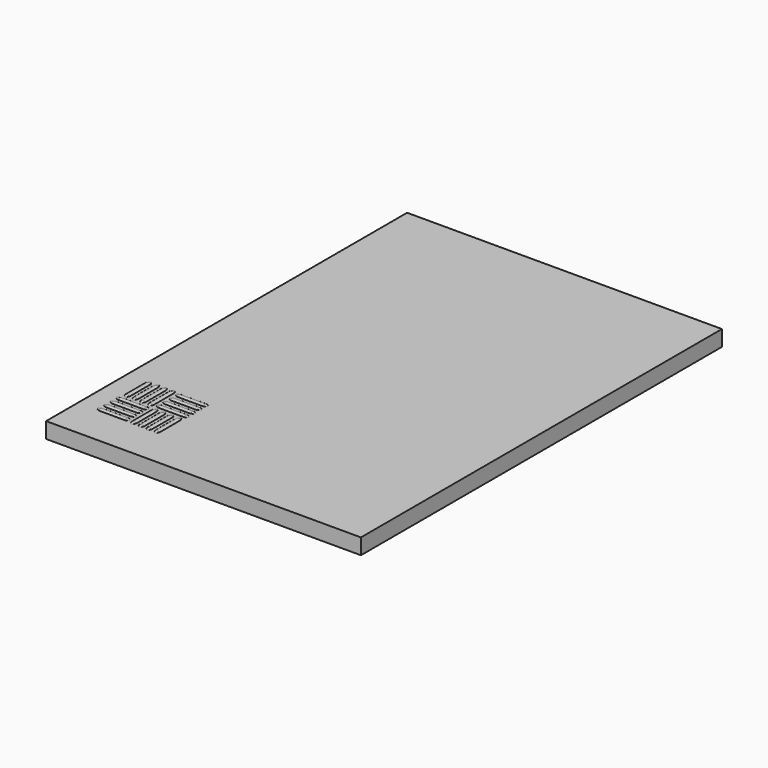
from build123d import *

# Parameters (mm, degrees)
BOX_W                     = 60
BOX_H                     = 86
BOX_DEPTH                 = 3
CYLINDER001_R             = 0.75
CYLINDER001_DEPTH         = 5
FUSION001_ROLL_ANGLE      = 90
CYLINDER002_R             = 0.75
CYLINDER002_DEPTH         = 5
FUSION002_ROLL_ANGLE      = 90
CYLINDER003_R             = 0.75
CYLINDER003_DEPTH         = 5
FUSION003_ROLL_ANGLE      = 90
CYLINDER_R                = 0.75
CYLINDER_DEPTH            = 5
FUSION_ROLL_ANGLE         = 90
FUSION007_ROLL_ANGLE      = 90
FUSION008_ROLL_ANGLE      = 90
FUSION006_ROLL_ANGLE      = 90
FUSION009_ROLL_ANGLE      = 90
FUSION012_ROLL_ANGLE      = 90
FUSION013_ROLL_ANGLE      = 90
FUSION011_ROLL_ANGLE      = 90
FUSION014_ROLL_ANGLE      = 90
FUSION010_PLACEMENT_ANGLE = 90
FUSION018_ROLL_ANGLE      = 90
FUSION017_ROLL_ANGLE      = 90
FUSION016_ROLL_ANGLE      = 90
FUSION019_ROLL_ANGLE      = 90
FUSION015_PLACEMENT_ANGLE = 90


with BuildPart() as box:
    # Box → Box (new body)
    with BuildSketch(Plane.XY):
        with Locations((30, 43)):
            Rectangle(BOX_W, BOX_H)
    extrude(amount=BOX_DEPTH)


with BuildPart() as cone:
    # Cone → Cone (revolve)
    with BuildSketch(Plane(origin=(0, 0, 4), x_dir=(1, 0, 0), z_dir=(0, -1, 0))):
        Polygon((0, 0), (0.75, 0), (0, 3), align=None)
    revolve(axis=Axis((0, 0, 4), (0, 0, 1)))


with BuildPart() as part_mirroring001:
    # Part__Mirroring001: instance of Cone
    add(cone.part.mirror(Plane(origin=(0, 0, 0), x_dir=(0, 1, 0), z_dir=(0, 0, 1))))


with BuildPart() as part_mirroring001_1:
    # Part__Mirroring001 placement: moved
    add(part_mirroring001.part.moved(Location((0, 0, 4))))


with BuildPart() as cone002:
    # Cone002 → Cone002 (revolve)
    with BuildSketch(Plane(origin=(0, 0, 5), x_dir=(1, 0, 0), z_dir=(0, -1, 0))):
        Polygon((0, 0), (0.75, 0), (0, 3), align=None)
    revolve(axis=Axis((0, 0, 5), (0, 0, 1)))


with BuildPart() as cylinder001:
    # Cylinder001 → Cylinder001 (new body)
    with BuildSketch(Plane.XY):
        Circle(CYLINDER001_R)
    extrude(amount=CYLINDER001_DEPTH)


with BuildPart() as fusion001:
    # Fusion001 base: copy of Cylinder001
    add(cylinder001.part)

    # Fusion001: union Part__Mirroring001, Cone002
    add(part_mirroring001_1.part)
    add(cone002.part)


with BuildPart() as fusion001_1:
    # Fusion001 roll: moved
    add(fusion001.part.rotate(Axis((0, 0, 0), (1, 0, 0)), FUSION001_ROLL_ANGLE))


with BuildPart() as fusion001_2:
    # Fusion001 placement: moved
    add(fusion001_1.part.moved(Location((10.5, 16, 2.4))))


with BuildPart() as part_mirroring002:
    # Part__Mirroring002: instance of Cone
    add(cone.part.mirror(Plane(origin=(0, 0, 0), x_dir=(0, 1, 0), z_dir=(0, 0, 1))))


with BuildPart() as part_mirroring002_1:
    # Part__Mirroring002 placement: moved
    add(part_mirroring002.part.moved(Location((0, 0, 4))))


with BuildPart() as cone003:
    # Cone003 → Cone003 (revolve)
    with BuildSketch(Plane(origin=(0, 0, 5), x_dir=(1, 0, 0), z_dir=(0, -1, 0))):
        Polygon((0, 0), (0.75, 0), (0, 3), align=None)
    revolve(axis=Axis((0, 0, 5), (0, 0, 1)))


with BuildPart() as cylinder002:
    # Cylinder002 → Cylinder002 (new body)
    with BuildSketch(Plane.XY):
        Circle(CYLINDER002_R)
    extrude(amount=CYLINDER002_DEPTH)


with BuildPart() as fusion002:
    # Fusion002 base: copy of Cylinder002
    add(cylinder002.part)

    # Fusion002: union Part__Mirroring002, Cone003
    add(part_mirroring002_1.part)
    add(cone003.part)


with BuildPart() as fusion002_1:
    # Fusion002 roll: moved
    add(fusion002.part.rotate(Axis((0, 0, 0), (1, 0, 0)), FUSION002_ROLL_ANGLE))


with BuildPart() as fusion002_2:
    # Fusion002 placement: moved
    add(fusion002_1.part.moved(Location((12, 16, 2.4))))


with BuildPart() as part_mirroring003:
    # Part__Mirroring003: instance of Cone
    add(cone.part.mirror(Plane(origin=(0, 0, 0), x_dir=(0, 1, 0), z_dir=(0, 0, 1))))


with BuildPart() as part_mirroring003_1:
    # Part__Mirroring003 placement: moved
    add(part_mirroring003.part.moved(Location((0, 0, 4))))


with BuildPart() as cone004:
    # Cone004 → Cone004 (revolve)
    with BuildSketch(Plane(origin=(0, 0, 5), x_dir=(1, 0, 0), z_dir=(0, -1, 0))):
        Polygon((0, 0), (0.75, 0), (0, 3), align=None)
    revolve(axis=Axis((0, 0, 5), (0, 0, 1)))


with BuildPart() as cylinder003:
    # Cylinder003 → Cylinder003 (new body)
    with BuildSketch(Plane.XY):
        Circle(CYLINDER003_R)
    extrude(amount=CYLINDER003_DEPTH)


with BuildPart() as fusion003:
    # Fusion003 base: copy of Cylinder003
    add(cylinder003.part)

    # Fusion003: union Part__Mirroring003, Cone004
    add(part_mirroring003_1.part)
    add(cone004.part)


with BuildPart() as fusion003_1:
    # Fusion003 roll: moved
    add(fusion003.part.rotate(Axis((0, 0, 0), (1, 0, 0)), FUSION003_ROLL_ANGLE))


with BuildPart() as fusion003_2:
    # Fusion003 placement: moved
    add(fusion003_1.part.moved(Location((13.5, 16, 2.4))))


with BuildPart() as part_mirroring:
    # Part__Mirroring: instance of Cone
    add(cone.part.mirror(Plane(origin=(0, 0, 0), x_dir=(0, 1, 0), z_dir=(0, 0, 1))))


with BuildPart() as part_mirroring_1:
    # Part__Mirroring placement: moved
    add(part_mirroring.part.moved(Location((0, 0, 4))))


with BuildPart() as cone001:
    # Cone001 → Cone001 (revolve)
    with BuildSketch(Plane(origin=(0, 0, 5), x_dir=(1, 0, 0), z_dir=(0, -1, 0))):
        Polygon((0, 0), (0.75, 0), (0, 3), align=None)
    revolve(axis=Axis((0, 0, 5), (0, 0, 1)))


with BuildPart() as cylinder:
    # Cylinder → Cylinder (new body)
    with BuildSketch(Plane.XY):
        Circle(CYLINDER_R)
    extrude(amount=CYLINDER_DEPTH)


with BuildPart() as fusion004:
    # Fusion base: copy of Cylinder
    add(cylinder.part)

    # Fusion: union Part__Mirroring, Cone001
    add(part_mirroring_1.part)
    add(cone001.part)


with BuildPart() as fusion004_1:
    # Fusion roll: moved
    add(fusion004.part.rotate(Axis((0, 0, 0), (1, 0, 0)), FUSION_ROLL_ANGLE))


with BuildPart() as fusion004_2:
    # Fusion placement: moved
    add(fusion004_1.part.moved(Location((9, 16, 2.4))))

    # Fusion004: union Fusion001, Fusion002, Fusion003
    add(fusion001_2.part)
    add(fusion002_2.part)
    add(fusion003_2.part)


with BuildPart() as fusion004_3:
    # Fusion004 placement: moved
    add(fusion004_2.part.moved(Location((1.5, -3.25, 0))))


with BuildPart() as fusion007:
    # Fusion007 base: copy of Cylinder001
    add(cylinder001.part)

    # Fusion007: union Part__Mirroring001, Cone002
    add(part_mirroring001_1.part)
    add(cone002.part)


with BuildPart() as fusion007_1:
    # Fusion007 roll: moved
    add(fusion007.part.rotate(Axis((0, 0, 0), (1, 0, 0)), FUSION007_ROLL_ANGLE))


with BuildPart() as fusion007_2:
    # Fusion007 placement: moved
    add(fusion007_1.part.moved(Location((10.5, 16, 2.4))))


with BuildPart() as fusion008:
    # Fusion008 base: copy of Cylinder002
    add(cylinder002.part)

    # Fusion008: union Part__Mirroring002, Cone003
    add(part_mirroring002_1.part)
    add(cone003.part)


with BuildPart() as fusion008_1:
    # Fusion008 roll: moved
    add(fusion008.part.rotate(Axis((0, 0, 0), (1, 0, 0)), FUSION008_ROLL_ANGLE))


with BuildPart() as fusion008_2:
    # Fusion008 placement: moved
    add(fusion008_1.part.moved(Location((12, 16, 2.4))))


with BuildPart() as fusion006:
    # Fusion006 base: copy of Cylinder003
    add(cylinder003.part)

    # Fusion006: union Part__Mirroring003, Cone004
    add(part_mirroring003_1.part)
    add(cone004.part)


with BuildPart() as fusion006_1:
    # Fusion006 roll: moved
    add(fusion006.part.rotate(Axis((0, 0, 0), (1, 0, 0)), FUSION006_ROLL_ANGLE))


with BuildPart() as fusion006_2:
    # Fusion006 placement: moved
    add(fusion006_1.part.moved(Location((13.5, 16, 2.4))))


with BuildPart() as fusion005:
    # Fusion009 base: copy of Cylinder
    add(cylinder.part)

    # Fusion009: union Part__Mirroring, Cone001
    add(part_mirroring_1.part)
    add(cone001.part)


with BuildPart() as fusion005_1:
    # Fusion009 roll: moved
    add(fusion005.part.rotate(Axis((0, 0, 0), (1, 0, 0)), FUSION009_ROLL_ANGLE))


with BuildPart() as fusion005_2:
    # Fusion009 placement: moved
    add(fusion005_1.part.moved(Location((9, 16, 2.4))))

    # Fusion005: union Fusion007, Fusion008, Fusion006
    add(fusion007_2.part)
    add(fusion008_2.part)
    add(fusion006_2.part)


with BuildPart() as fusion005_3:
    # Fusion005 placement: moved
    add(fusion005_2.part.moved(Location((-4.7, 3, 0))))


with BuildPart() as fusion012:
    # Fusion012 base: copy of Cylinder001
    add(cylinder001.part)

    # Fusion012: union Part__Mirroring001, Cone002
    add(part_mirroring001_1.part)
    add(cone002.part)


with BuildPart() as fusion012_1:
    # Fusion012 roll: moved
    add(fusion012.part.rotate(Axis((0, 0, 0), (1, 0, 0)), FUSION012_ROLL_ANGLE))


with BuildPart() as fusion012_2:
    # Fusion012 placement: moved
    add(fusion012_1.part.moved(Location((10.5, 16, 2.4))))


with BuildPart() as fusion013:
    # Fusion013 base: copy of Cylinder002
    add(cylinder002.part)

    # Fusion013: union Part__Mirroring002, Cone003
    add(part_mirroring002_1.part)
    add(cone003.part)


with BuildPart() as fusion013_1:
    # Fusion013 roll: moved
    add(fusion013.part.rotate(Axis((0, 0, 0), (1, 0, 0)), FUSION013_ROLL_ANGLE))


with BuildPart() as fusion013_2:
    # Fusion013 placement: moved
    add(fusion013_1.part.moved(Location((12, 16, 2.4))))


with BuildPart() as fusion011:
    # Fusion011 base: copy of Cylinder003
    add(cylinder003.part)

    # Fusion011: union Part__Mirroring003, Cone004
    add(part_mirroring003_1.part)
    add(cone004.part)


with BuildPart() as fusion011_1:
    # Fusion011 roll: moved
    add(fusion011.part.rotate(Axis((0, 0, 0), (1, 0, 0)), FUSION011_ROLL_ANGLE))


with BuildPart() as fusion011_2:
    # Fusion011 placement: moved
    add(fusion011_1.part.moved(Location((13.5, 16, 2.4))))


with BuildPart() as fusion010:
    # Fusion014 base: copy of Cylinder
    add(cylinder.part)

    # Fusion014: union Part__Mirroring, Cone001
    add(part_mirroring_1.part)
    add(cone001.part)


with BuildPart() as fusion010_1:
    # Fusion014 roll: moved
    add(fusion010.part.rotate(Axis((0, 0, 0), (1, 0, 0)), FUSION014_ROLL_ANGLE))


with BuildPart() as fusion010_2:
    # Fusion014 placement: moved
    add(fusion010_1.part.moved(Location((9, 16, 2.4))))

    # Fusion010: union Fusion012, Fusion013, Fusion011
    add(fusion012_2.part)
    add(fusion013_2.part)
    add(fusion011_2.part)


with BuildPart() as fusion010_3:
    # Fusion010 placement: moved
    add(fusion010_2.part.moved(Location((20, -1, 0))).rotate(Axis((20, -1, 0), (0, 0, 1)), FUSION010_PLACEMENT_ANGLE))


with BuildPart() as fusion018:
    # Fusion018 base: copy of Cylinder001
    add(cylinder001.part)

    # Fusion018: union Part__Mirroring001, Cone002
    add(part_mirroring001_1.part)
    add(cone002.part)


with BuildPart() as fusion018_1:
    # Fusion018 roll: moved
    add(fusion018.part.rotate(Axis((0, 0, 0), (1, 0, 0)), FUSION018_ROLL_ANGLE))


with BuildPart() as fusion018_2:
    # Fusion018 placement: moved
    add(fusion018_1.part.moved(Location((10.5, 16, 2.4))))


with BuildPart() as fusion017:
    # Fusion017 base: copy of Cylinder002
    add(cylinder002.part)

    # Fusion017: union Part__Mirroring002, Cone003
    add(part_mirroring002_1.part)
    add(cone003.part)


with BuildPart() as fusion017_1:
    # Fusion017 roll: moved
    add(fusion017.part.rotate(Axis((0, 0, 0), (1, 0, 0)), FUSION017_ROLL_ANGLE))


with BuildPart() as fusion017_2:
    # Fusion017 placement: moved
    add(fusion017_1.part.moved(Location((12, 16, 2.4))))


with BuildPart() as fusion016:
    # Fusion016 base: copy of Cylinder003
    add(cylinder003.part)

    # Fusion016: union Part__Mirroring003, Cone004
    add(part_mirroring003_1.part)
    add(cone004.part)


with BuildPart() as fusion016_1:
    # Fusion016 roll: moved
    add(fusion016.part.rotate(Axis((0, 0, 0), (1, 0, 0)), FUSION016_ROLL_ANGLE))


with BuildPart() as fusion016_2:
    # Fusion016 placement: moved
    add(fusion016_1.part.moved(Location((13.5, 16, 2.4))))


with BuildPart() as fusion015:
    # Fusion019 base: copy of Cylinder
    add(cylinder.part)

    # Fusion019: union Part__Mirroring, Cone001
    add(part_mirroring_1.part)
    add(cone001.part)


with BuildPart() as fusion015_1:
    # Fusion019 roll: moved
    add(fusion015.part.rotate(Axis((0, 0, 0), (1, 0, 0)), FUSION019_ROLL_ANGLE))


with BuildPart() as fusion015_2:
    # Fusion019 placement: moved
    add(fusion015_1.part.moved(Location((9, 16, 2.4))))

    # Fusion015: union Fusion018, Fusion017, Fusion016
    add(fusion018_2.part)
    add(fusion017_2.part)
    add(fusion016_2.part)


with BuildPart() as fusion015_3:
    # Fusion015 placement: moved
    add(fusion015_2.part.moved(Location((26.25, 5.25, 0))).rotate(Axis((26.25, 5.25, 0), (0, 0, 1)), FUSION015_PLACEMENT_ANGLE))


solid = Compound([box.part, fusion004_3.part, fusion005_3.part, fusion010_3.part, fusion015_3.part])
